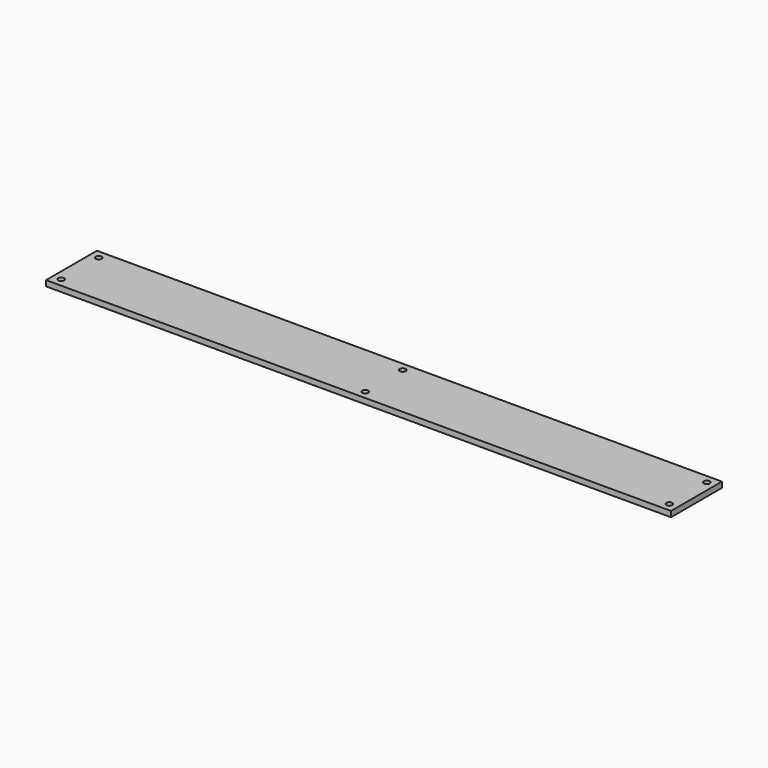
from build123d import *

# Parameters (mm, degrees)
F0_W     = 355.6
F0_H     = 36.195
F0_R     = 1.7272
F1_DEPTH = 3.175


with BuildPart() as f1:
    # F0 (on Top) → F1 (new body)
    with BuildSketch(Plane.XY):
        Rectangle(F0_W, F0_H)
        with Locations((-173.0375, -13.335)):
            Circle(F0_R, mode=Mode.SUBTRACT)
        with Locations((0, -13.335)):
            Circle(F0_R, mode=Mode.SUBTRACT)
        with Locations((173.0375, -13.335)):
            Circle(F0_R, mode=Mode.SUBTRACT)
        with Locations((-173.0375, 13.335)):
            Circle(F0_R, mode=Mode.SUBTRACT)
        with Locations((0, 13.335)):
            Circle(F0_R, mode=Mode.SUBTRACT)
        with Locations((173.0375, 13.335)):
            Circle(F0_R, mode=Mode.SUBTRACT)
    extrude(amount=F1_DEPTH)


solid = f1.part
